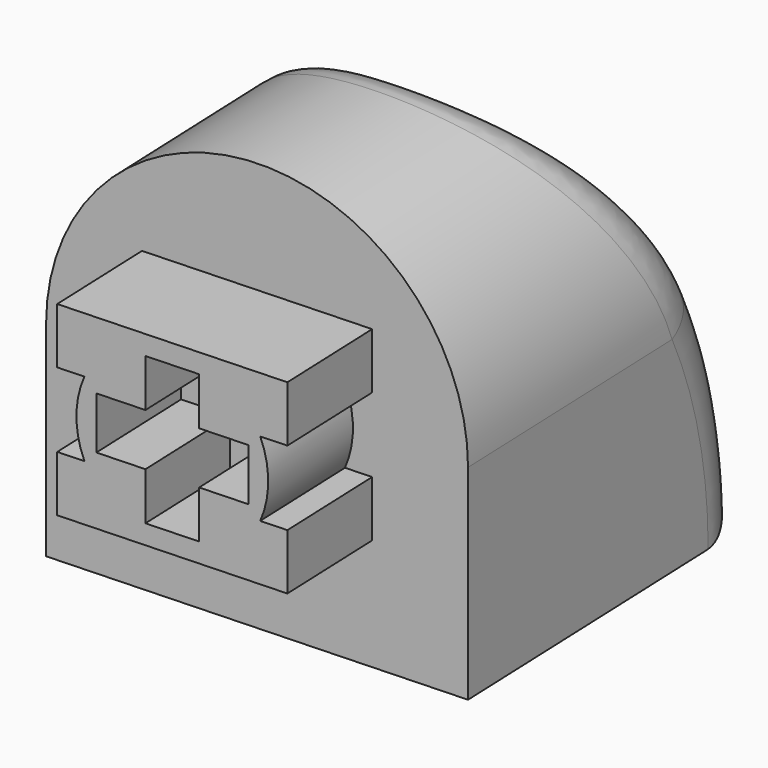
from build123d import *

# Parameters (mm, degrees)
PAD112_DEPTH               = 3
PAD126_DEPTH               = 10
POCKET064_DEPTH            = 5.5
FILLET009_R                = 1.5
BODY181005_ROLL_ANGLE      = 89.997092
BODY181005_PITCH_ANGLE     = 5.8e-05
BODY181005_PLACEMENT_ANGLE = -177.708532


with BuildPart() as part:
    # Sketch208 → Pad112 (new body)
    with BuildSketch(Plane.XY):
        with BuildLine():
            ThreePointArc((-2.291288, 1), (-2.5, 0), (-2.291288, -1))
            Line((-3, -1), (-2.291288, -1))
            Line((-3, -2.5), (-3, -1))
            Line((-3, -2.5), (3, -2.5))
            Line((3, -2.5), (3, -1))
            Line((3, -1), (2.291288, -1))
            ThreePointArc((2.291288, -1), (2.5, 0), (2.291288, 1))
            Line((3, 1), (2.291288, 1))
            Line((3, 2.5), (3, 1))
            Line((-3, 2.5), (3, 2.5))
            Line((-3, 2.5), (-3, 1))
            Line((-3, 1), (-2.291288, 1))
        make_face()
        Polygon((-1.979899, 0.7), (-0.7, 0.7), (-0.7, 1.979899), (0.7, 1.979899), (0.7, 0.7), (1.979899, 0.7), (1.979899, -0.7), (0.7, -0.7), (0.7, -1.979899), (-0.7, -1.979899), (-0.7, -0.7), (-1.979899, -0.7), align=None, mode=Mode.SUBTRACT)
    extrude(amount=PAD112_DEPTH)


with BuildPart() as part_1:
    # Body167 placement: moved
    add(part.part.moved(Location((0, 0, 6))))

    # Sketch240 → Pad126 (new body)
    with BuildSketch(Plane.XY.offset(9)):
        with BuildLine():
            Line((5.5, 0), (5.5, -5.5))
            Line((5.5, -5.5), (-5.5, -5.5))
            Line((-5.5, -5.5), (-5.5, 0))
            ThreePointArc((5.5, 0), (0, 5.5), (-5.5, 0))
        make_face()
    extrude(amount=PAD126_DEPTH)

    # Sketch241 → Pocket064 (cut, symmetric)
    with BuildSketch(Plane(origin=(0, -5.5, 5), x_dir=(0, 1, 0), z_dir=(1, 0, 0))):
        with BuildLine():
            ThreePointArc((14, 0), (9.899495, 9.899495), (0, 14))
            Line((0, 14), (14, 14))
            Line((14, 14), (14, 0))
        make_face()
    extrude(amount=POCKET064_DEPTH, both=True, mode=Mode.SUBTRACT)

    # Fillet009
    fillet009_edges = [part_1.edges().sort_by_distance(p)[0] for p in [
        (5.5, -2.693, 18.715712),
        (0, 5.5, 13.660254),
        (-5.5, -2.693, 18.715712),
        (0, -5.5, 19),
    ]]
    fillet(fillet009_edges, radius=FILLET009_R)


with BuildPart() as part_2:
    # Body181005 roll: moved
    add(part_1.part.rotate(Axis((0, 0, 0), (1, 0, 0)), BODY181005_ROLL_ANGLE))


with BuildPart() as part_3:
    # Body181005 pitch: moved
    add(part_2.part.rotate(Axis((0, 0, 0), (0, 1, 0)), BODY181005_PITCH_ANGLE))


with BuildPart() as part_4:
    # Body181005 placement: moved
    add(part_3.part.moved(Location((34.990016, 5.999193, 8.017979))).rotate(Axis((34.990016, 5.999193, 8.017979), (0, 0, 1)), BODY181005_PLACEMENT_ANGLE))


solid = part_4.part
